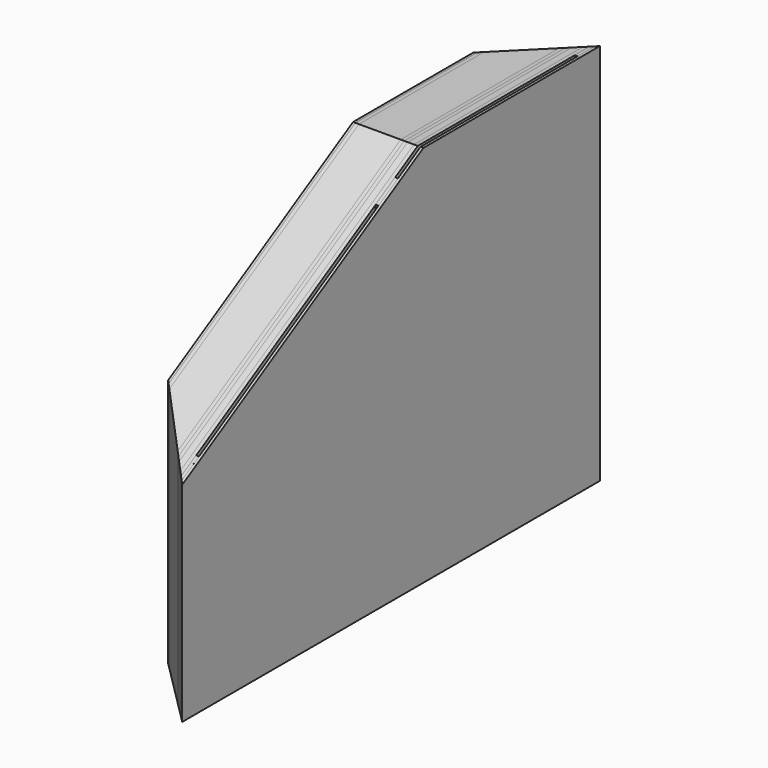
from build123d import *

# Parameters (mm, degrees)
F1_DEPTH  = 6
F2_DEPTH  = 1
F3_DEPTH  = 10
F4_DEPTH  = 120
F5_DEPTH  = 10
F6_DEPTH  = 10
F7_DEPTH  = 18
F8_DEPTH  = 10
F9_DEPTH  = 1
F10_W     = 70
F10_H     = 1100
F11_DEPTH = 8
F13_DEPTH = 8
F15_DEPTH = 1100.001
F17_DEPTH = 1100.001


with BuildPart() as f1:
    # F0 (on Right) → F1 (new body)
    with BuildSketch(Plane.YZ):
        Polygon((0, 600), (0, 0), (1500, 0), (1500, 1100), (866.0254037844, 1100), align=None)
    extrude(amount=F1_DEPTH)


with BuildPart() as f2:
    # F2 (new): a face of the model
    f2_faces = [f1.part.faces().sort_by_distance(p)[0] for p in [
        (6, 819.6757626206, 492.1036143057),
    ]]
    extrude(f2_faces, amount=F2_DEPTH)


with BuildPart() as f3:
    # F3 (new): a face of the model
    f3_faces = [f2.part.faces().sort_by_distance(p)[0] for p in [
        (7, 819.6757626206, 492.1036143057),
    ]]
    extrude(f3_faces, amount=F3_DEPTH)


with BuildPart() as f4:
    # F4 (new): a face of the model
    f4_faces = [f3.part.faces().sort_by_distance(p)[0] for p in [
        (17, 819.6757626206, 492.1036143057),
    ]]
    extrude(f4_faces, amount=F4_DEPTH)


with BuildPart() as f5:
    # F5 (new): a face of the model
    f5_faces = [f4.part.faces().sort_by_distance(p)[0] for p in [
        (137, 819.6757626206, 492.1036143057),
    ]]
    extrude(f5_faces, amount=F5_DEPTH)


with BuildPart() as f6:
    # F6 (new): a face of the model
    f6_faces = [f5.part.faces().sort_by_distance(p)[0] for p in [
        (147, 819.6757626206, 492.1036143057),
    ]]
    extrude(f6_faces, amount=F6_DEPTH)


with BuildPart() as f7:
    # F7 (new): a face of the model
    f7_faces = [f6.part.faces().sort_by_distance(p)[0] for p in [
        (157, 819.6757626206, 492.1036143057),
    ]]
    extrude(f7_faces, amount=F7_DEPTH)


with BuildPart() as f8:
    # F8 (new): a face of the model
    f8_faces = [f7.part.faces().sort_by_distance(p)[0] for p in [
        (175, 819.6757626206, 492.1036143057),
    ]]
    extrude(f8_faces, amount=F8_DEPTH)


with BuildPart() as f9:
    # F9 (new): a face of the model
    f9_faces = [f8.part.faces().sort_by_distance(p)[0] for p in [
        (185, 819.6757626206, 492.1036143057),
    ]]
    extrude(f9_faces, amount=F9_DEPTH)


with BuildPart() as f11:
    # F10 (on face) → F11 (new body)
    with BuildSketch(Plane.YZ.offset(186)):
        with Locations((1465, 550)):
            Rectangle(F10_W, F10_H)
    extrude(amount=F11_DEPTH)


with BuildPart() as f11b:
    # F10 (on face) → F11, piece 2 (new body)
    with BuildSketch(Plane.YZ.offset(186)):
        Polygon((715, 1012.8054424706), (715, 0), (785, 0), (785, 1053.2199613139), align=None)
    extrude(amount=F11_DEPTH)


with BuildPart() as f11c:
    # F10 (on face) → F11, piece 3 (new body)
    with BuildSketch(Plane.YZ.offset(186)):
        Polygon((0, 600), (0, 0), (70, 0), (70, 640.4145188433), align=None)
    extrude(amount=F11_DEPTH)


with BuildPart() as f13:
    # F12 (on face) → F13 (new body)
    with BuildSketch(Plane.YZ.offset(194)):
        Polygon((866.0254037844, 1100), (0, 600), (0, 0), (1500, 0), (1500, 1100), align=None)
    extrude(amount=F13_DEPTH)


with BuildPart() as f15_tool:
    # F14 (on face) → F15 (new body, through all)
    with BuildSketch(Plane.XY.offset(1100)):
        Polygon((0, 1298), (202, 1500), (0, 1500), align=None)
    extrude(amount=-F15_DEPTH)


with BuildPart() as f1_1:
    add(f1.part)

    # F15: cut by f15_tool
    add(f15_tool.part, mode=Mode.SUBTRACT)


with BuildPart() as f2_1:
    add(f2.part)

    # F15: cut by f15_tool
    add(f15_tool.part, mode=Mode.SUBTRACT)


with BuildPart() as f3_1:
    add(f3.part)

    # F15: cut by f15_tool
    add(f15_tool.part, mode=Mode.SUBTRACT)


with BuildPart() as f4_1:
    add(f4.part)

    # F15: cut by f15_tool
    add(f15_tool.part, mode=Mode.SUBTRACT)


with BuildPart() as f5_1:
    add(f5.part)

    # F15: cut by f15_tool
    add(f15_tool.part, mode=Mode.SUBTRACT)


with BuildPart() as f6_1:
    add(f6.part)

    # F15: cut by f15_tool
    add(f15_tool.part, mode=Mode.SUBTRACT)


with BuildPart() as f7_1:
    add(f7.part)

    # F15: cut by f15_tool
    add(f15_tool.part, mode=Mode.SUBTRACT)


with BuildPart() as f8_1:
    add(f8.part)

    # F15: cut by f15_tool
    add(f15_tool.part, mode=Mode.SUBTRACT)


with BuildPart() as f9_1:
    add(f9.part)

    # F15: cut by f15_tool
    add(f15_tool.part, mode=Mode.SUBTRACT)


with BuildPart() as f11_1:
    add(f11.part)

    # F15: cut by f15_tool
    add(f15_tool.part, mode=Mode.SUBTRACT)


with BuildPart() as f13_1:
    add(f13.part)

    # F15: cut by f15_tool
    add(f15_tool.part, mode=Mode.SUBTRACT)


with BuildPart() as f17_tool:
    # F16 (on face) → F17 (new body, through all)
    with BuildSketch(Plane(origin=(0, 0, 0), x_dir=(1, 0, 0), z_dir=(0, 0, -1))):
        Polygon((0, 0), (0, -202), (202, 0), align=None)
    extrude(amount=-F17_DEPTH)


with BuildPart() as f1_2:
    add(f1_1.part)

    # F17: cut by f17_tool
    add(f17_tool.part, mode=Mode.SUBTRACT)


with BuildPart() as f2_2:
    add(f2_1.part)

    # F17: cut by f17_tool
    add(f17_tool.part, mode=Mode.SUBTRACT)


with BuildPart() as f3_2:
    add(f3_1.part)

    # F17: cut by f17_tool
    add(f17_tool.part, mode=Mode.SUBTRACT)


with BuildPart() as f4_2:
    add(f4_1.part)

    # F17: cut by f17_tool
    add(f17_tool.part, mode=Mode.SUBTRACT)


with BuildPart() as f5_2:
    add(f5_1.part)

    # F17: cut by f17_tool
    add(f17_tool.part, mode=Mode.SUBTRACT)


with BuildPart() as f6_2:
    add(f6_1.part)

    # F17: cut by f17_tool
    add(f17_tool.part, mode=Mode.SUBTRACT)


with BuildPart() as f7_2:
    add(f7_1.part)

    # F17: cut by f17_tool
    add(f17_tool.part, mode=Mode.SUBTRACT)


with BuildPart() as f8_2:
    add(f8_1.part)

    # F17: cut by f17_tool
    add(f17_tool.part, mode=Mode.SUBTRACT)


with BuildPart() as f9_2:
    add(f9_1.part)

    # F17: cut by f17_tool
    add(f17_tool.part, mode=Mode.SUBTRACT)


with BuildPart() as f11c_1:
    add(f11c.part)

    # F17: cut by f17_tool
    add(f17_tool.part, mode=Mode.SUBTRACT)


with BuildPart() as f13_2:
    add(f13_1.part)

    # F17: cut by f17_tool
    add(f17_tool.part, mode=Mode.SUBTRACT)


solid = Compound([f11b.part, f11_1.part, f1_2.part, f2_2.part, f3_2.part, f4_2.part, f5_2.part, f6_2.part, f7_2.part, f8_2.part, f9_2.part, f11c_1.part, f13_2.part])
